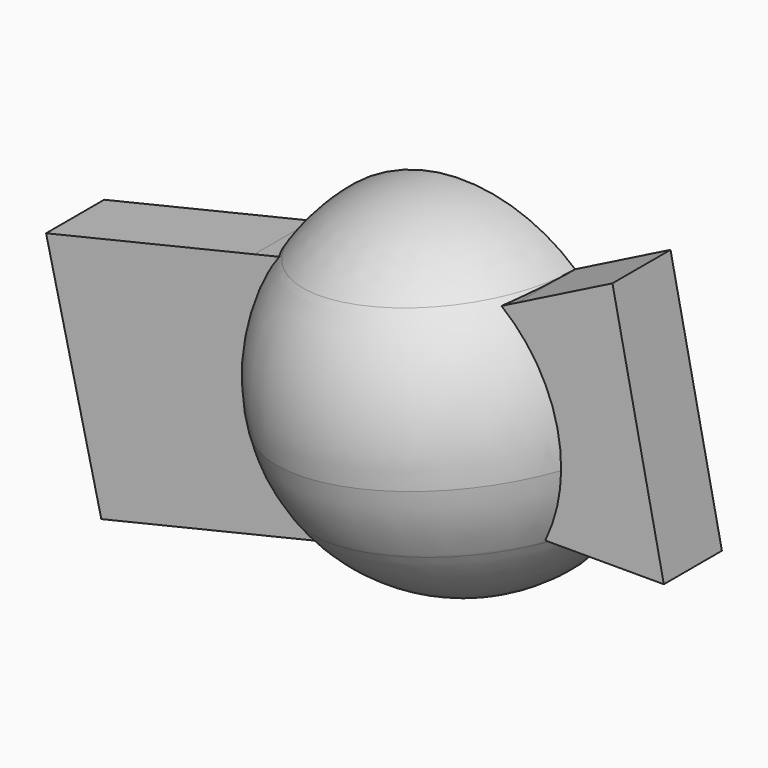
from build123d import *

# Parameters (mm, degrees)
F1_ANGLE = 180
F2_DEPTH = 3.81


with BuildPart() as f1:
    # F0 (on Front) → F1 (revolve)
    with BuildSketch(Plane.XZ):
        with BuildLine():
            Line((16.5082346648, 16.224283725), (18.2337006073, 17.0946722641))
            ThreePointArc((18.2337006073, 17.0946722641), (14.8745189536, 18.9354162146), (11.0555840656, 19.2323606461))
            Line((11.0555840656, 19.2323606461), (13.599505648, 1.1936350493))
            ThreePointArc((13.599505648, 1.1936350493), (17.8182181902, 2.9778817317), (20.6351074332, 6.589835044))
            Line((20.6351074332, 6.589835044), (18.6982639134, 6.589835044))
            Line((18.6982639134, 6.589835044), (16.5082346648, 16.224283725))
        make_face()
        with BuildLine():
            ThreePointArc((20.6351074332, 6.589835044), (21.1944217428, 8.3593731807), (21.3834757445, 10.2055466012))
            ThreePointArc((21.3834757445, 10.2055466012), (20.5586904169, 13.9930634597), (18.2337006073, 17.0946722641))
            Line((18.2337006073, 17.0946722641), (16.5082346648, 16.224283725))
            Line((16.5082346648, 16.224283725), (18.6982639134, 6.589835044))
            Line((18.6982639134, 6.589835044), (20.6351074332, 6.589835044))
        make_face()
    revolve(axis=Axis((12.3275448568, 0, 10.2129978477), (0.1396437753, 0, -0.9902018057)), revolution_arc=F1_ANGLE)

    # F0 (on Front) → F2 (join)
    with BuildSketch(Plane.XZ):
        with BuildLine():
            Line((6.126008725, 15.2465576545), (4.4375196919, 14.8475402326))
            ThreePointArc((4.4375196919, 14.8475402326), (3.4042661078, 8.1355503205), (7.301621212, 2.5741615783))
            Line((7.301621212, 2.5741615783), (9.6041723701, 3.118291868))
            Line((9.6041723701, 3.118291868), (6.126008725, 15.2465576545))
        make_face()
        with BuildLine():
            ThreePointArc((7.301621212, 2.5741615783), (3.4042661078, 8.1355503205), (4.4375196919, 14.8475402326))
            Line((4.4375196919, 14.8475402326), (-6.489724676, 12.2652546565))
            Line((-6.489724676, 12.2652546565), (-3.591245506, 0))
            Line((-3.591245506, 0), (7.301621212, 2.5741615783))
        make_face()
        with BuildLine():
            ThreePointArc((18.2337006073, 17.0946722641), (20.5586904169, 13.9930634597), (21.3834757445, 10.2055466012))
            ThreePointArc((21.3834757445, 10.2055466012), (21.1944217428, 8.3593731807), (20.6351074332, 6.589835044))
            Line((20.6351074332, 6.589835044), (25.9336773306, 6.589835044))
            Line((25.9336773306, 6.589835044), (23.23557809, 19.6178033948))
            Line((23.23557809, 19.6178033948), (18.2337006073, 17.0946722641))
        make_face()
        with BuildLine():
            ThreePointArc((20.6351074332, 6.589835044), (21.1944217428, 8.3593731807), (21.3834757445, 10.2055466012))
            ThreePointArc((21.3834757445, 10.2055466012), (20.5586904169, 13.9930634597), (18.2337006073, 17.0946722641))
            Line((18.2337006073, 17.0946722641), (16.5082346648, 16.224283725))
            Line((16.5082346648, 16.224283725), (18.6982639134, 6.589835044))
            Line((18.6982639134, 6.589835044), (20.6351074332, 6.589835044))
        make_face()
    extrude(amount=F2_DEPTH)


solid = f1.part
